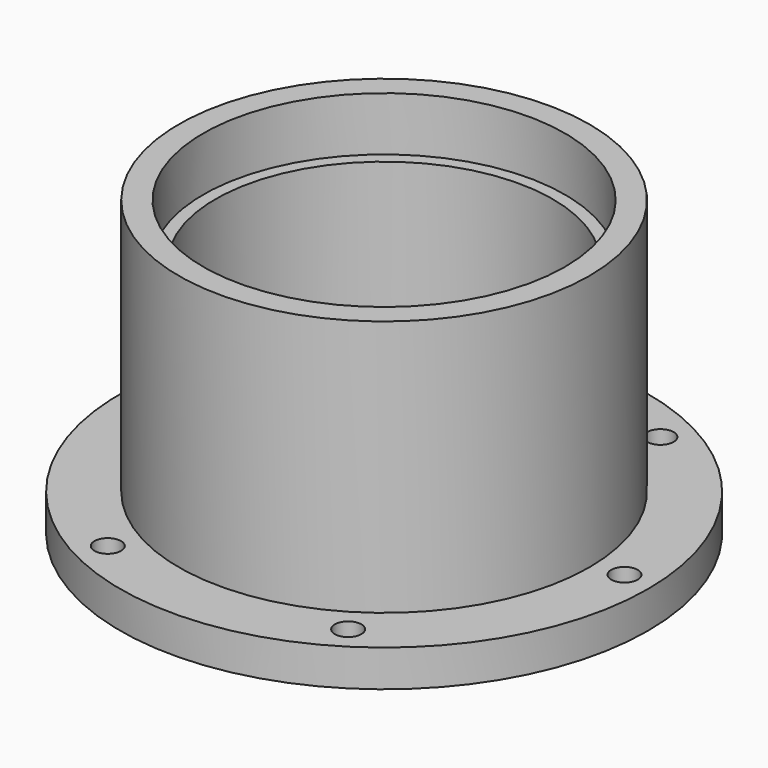
from build123d import *

# Parameters (mm, degrees)
F0_R     = 34.29
F1_DEPTH = 4.7752
F2_R     = 26.67
F3_DEPTH = 33.3248
F4_R     = 21.9075
F5_DEPTH = 38.101
F6_R     = 23.495
F7_DEPTH = 7.0104
F8_R     = 23.495
F9_DEPTH = 7.0104
F11_D    = 3.4544


with BuildPart() as f1:
    # F0 (on Top) → F1 (new body)
    with BuildSketch(Plane.XY):
        Circle(F0_R)
    extrude(amount=F1_DEPTH)

    # F2 (on face) → F3 (join)
    with BuildSketch(Plane.XY.offset(4.7752)):
        Circle(F2_R)
    extrude(amount=F3_DEPTH)

    # F4 (on face) → F5 (cut, through all)
    with BuildSketch(Plane.XY.offset(38.1)):
        Circle(F4_R)
    extrude(amount=-F5_DEPTH, mode=Mode.SUBTRACT)

    # F6 (on face) → F7 (cut)
    with BuildSketch(Plane.XY.offset(38.1)):
        Circle(F6_R)
    extrude(amount=-F7_DEPTH, mode=Mode.SUBTRACT)

    # F8 (on face) → F9 (cut)
    with BuildSketch(Plane(origin=(0, 0, 0), x_dir=(1, 0, 0), z_dir=(0, 0, -1))):
        Circle(F8_R)
    extrude(amount=-F9_DEPTH, mode=Mode.SUBTRACT)

    # F11 (through all)
    with Locations(Plane(origin=(0, 0, 0), x_dir=(1, 0, 0), z_dir=(0, 0, -1))):
        with Locations((-16.052859, -25.910155), (-30.465282, 0.947107), (-14.412422, 26.857261), (16.052859, 25.910155), (30.465282, -0.947107), (14.412422, -26.857261)):
            Hole(F11_D / 2)


solid = f1.part
